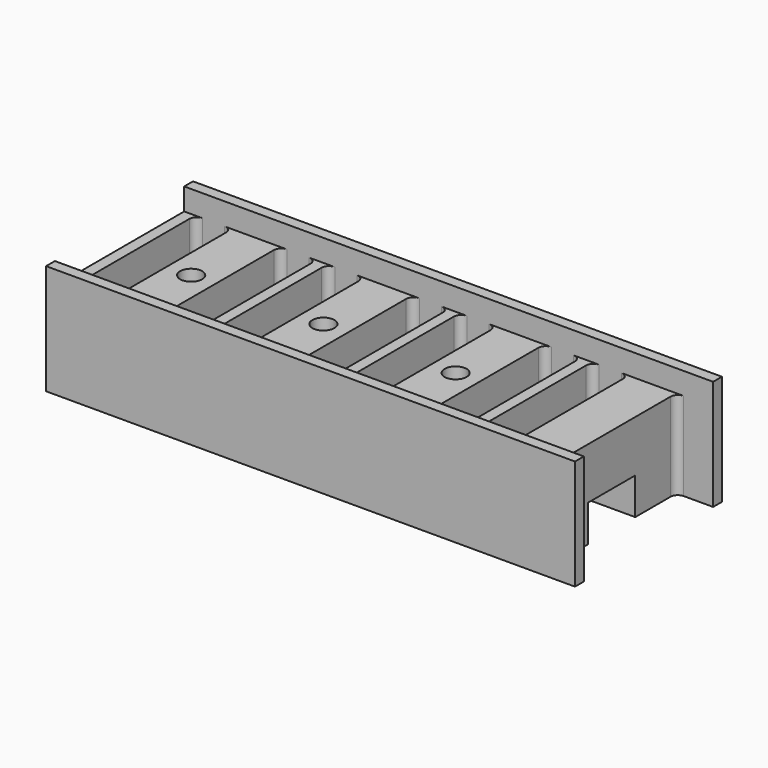
from build123d import *

# Parameters (mm, degrees)
F0_R     = 1.5
F1_DEPTH = 15
F2_W     = 60.5
F2_H     = 8
F3_DEPTH = 5
F4_W     = 22
F4_H     = 3
F5_DEPTH = 120
F6_R     = 1
F7_R     = 1
F8_R     = 1


with BuildPart() as f1:
    # F0 (on Top) → F1 (new body)
    with BuildSketch(Plane.XY):
        with BuildLine():
            Line((18, 12.5), (0, 12.5))
            Line((0, 12.5), (0, -12.5))
            Line((0, -12.5), (18, -12.5))
            Line((18, -12.5), (18, -11))
            Line((18, -11), (14, -11))
            ThreePointArc((14, -11), (13.292893, -10.707107), (13, -10))
            Line((13, -10), (13, 10))
            ThreePointArc((13, 10), (13.292893, 10.707107), (14, 11))
            Line((14, 11), (18, 11))
            Line((18, 11), (18, 12.5))
        make_face()
        with BuildLine():
            ThreePointArc((1.5, 10), (1.792893, 10.707107), (2.5, 11))
            Line((2.5, 11), (5.5, 11))
            ThreePointArc((5.5, 11), (6.207107, 10.707107), (6.5, 10))
            Line((6.5, 10), (6.5, -10))
            ThreePointArc((6.5, -10), (6.207107, -10.707107), (5.5, -11))
            Line((5.5, -11), (2.5, -11))
            ThreePointArc((2.5, -11), (1.792893, -10.707107), (1.5, -10))
            Line((1.5, -10), (1.5, 10))
        make_face(mode=Mode.SUBTRACT)
        with Locations((9.75, 0)):
            Circle(F0_R, mode=Mode.SUBTRACT)
        with BuildLine():
            Line((36, 12.5), (18, 12.5))
            Line((18, 12.5), (18, 11))
            Line((18, 11), (18, -11))
            Line((18, -11), (18, -12.5))
            Line((18, -12.5), (36, -12.5))
            Line((36, -12.5), (36, -11))
            Line((36, -11), (32, -11))
            ThreePointArc((32, -11), (31.292893, -10.707107), (31, -10))
            Line((31, -10), (31, 10))
            ThreePointArc((31, 10), (31.292893, 10.707107), (32, 11))
            Line((32, 11), (36, 11))
            Line((36, 11), (36, 12.5))
        make_face()
        with BuildLine():
            ThreePointArc((23.5, 11), (24.207107, 10.707107), (24.5, 10))
            Line((24.5, 10), (24.5, -10))
            ThreePointArc((24.5, -10), (24.207107, -10.707107), (23.5, -11))
            Line((23.5, -11), (20.5, -11))
            ThreePointArc((20.5, -11), (19.792893, -10.707107), (19.5, -10))
            Line((19.5, -10), (19.5, 10))
            ThreePointArc((19.5, 10), (19.792893, 10.707107), (20.5, 11))
            Line((20.5, 11), (23.5, 11))
        make_face(mode=Mode.SUBTRACT)
        with Locations((27.75, 0)):
            Circle(F0_R, mode=Mode.SUBTRACT)
        with BuildLine():
            Line((54, 12.5), (36, 12.5))
            Line((36, 12.5), (36, 11))
            Line((36, 11), (36, -11))
            Line((36, -11), (36, -12.5))
            Line((36, -12.5), (54, -12.5))
            Line((54, -12.5), (54, -11))
            Line((54, -11), (50, -11))
            ThreePointArc((50, -11), (49.292893, -10.707107), (49, -10))
            Line((49, -10), (49, 10))
            ThreePointArc((49, 10), (49.292893, 10.707107), (50, 11))
            Line((50, 11), (54, 11))
            Line((54, 11), (54, 12.5))
        make_face()
        with BuildLine():
            ThreePointArc((41.5, 11), (42.207107, 10.707107), (42.5, 10))
            Line((42.5, 10), (42.5, -10))
            ThreePointArc((42.5, -10), (42.207107, -10.707107), (41.5, -11))
            Line((41.5, -11), (38.5, -11))
            ThreePointArc((38.5, -11), (37.792893, -10.707107), (37.5, -10))
            Line((37.5, -10), (37.5, 10))
            ThreePointArc((37.5, 10), (37.792893, 10.707107), (38.5, 11))
            Line((38.5, 11), (41.5, 11))
        make_face(mode=Mode.SUBTRACT)
        with Locations((45.75, 0)):
            Circle(F0_R, mode=Mode.SUBTRACT)
        with BuildLine():
            Line((72, 12.5), (54, 12.5))
            Line((54, 12.5), (54, 11))
            Line((54, 11), (54, -11))
            Line((54, -11), (54, -12.5))
            Line((54, -12.5), (72, -12.5))
            Line((72, -12.5), (72, -11))
            Line((72, -11), (68, -11))
            ThreePointArc((68, -11), (67.292893, -10.707107), (67, -10))
            Line((67, -10), (67, 10))
            ThreePointArc((67, 10), (67.292893, 10.707107), (68, 11))
            Line((68, 11), (72, 11))
            Line((72, 11), (72, 12.5))
        make_face()
        with BuildLine():
            ThreePointArc((59.5, 11), (60.207107, 10.707107), (60.5, 10))
            Line((60.5, 10), (60.5, -10))
            ThreePointArc((60.5, -10), (60.207107, -10.707107), (59.5, -11))
            Line((59.5, -11), (56.5, -11))
            ThreePointArc((56.5, -11), (55.792893, -10.707107), (55.5, -10))
            Line((55.5, -10), (55.5, 10))
            ThreePointArc((55.5, 10), (55.792893, 10.707107), (56.5, 11))
            Line((56.5, 11), (59.5, 11))
        make_face(mode=Mode.SUBTRACT)
    extrude(amount=F1_DEPTH)

    # F2 (on Top) → F3 (cut)
    with BuildSketch(Plane.XY):
        with Locations((36.75, 0)):
            Rectangle(F2_W, F2_H)
    extrude(amount=F3_DEPTH, mode=Mode.SUBTRACT)

    # F4 (on face) → F5 (cut)
    with BuildSketch(Plane(origin=(0, 0, 0), x_dir=(0, -1, 0), z_dir=(-1, 0, 0))):
        with Locations((0, 13.5)):
            Rectangle(F4_W, F4_H)
    extrude(amount=-F5_DEPTH, mode=Mode.SUBTRACT)

    # F6
    f6_edges = [f1.edges().sort_by_distance(p)[0] for p in [
        (54, 11, 6),
        (36, 11, 6),
        (54, -11, 6),
        (36, -11, 6),
    ]]
    fillet(f6_edges, radius=F6_R)

    # F7
    f7_edges = [f1.edges().sort_by_distance(p)[0] for p in [
        (18, 11, 6),
    ]]
    fillet(f7_edges, radius=F7_R)

    # F8
    f8_edges = [f1.edges().sort_by_distance(p)[0] for p in [
        (18, -11, 6),
    ]]
    fillet(f8_edges, radius=F8_R)


solid = f1.part
